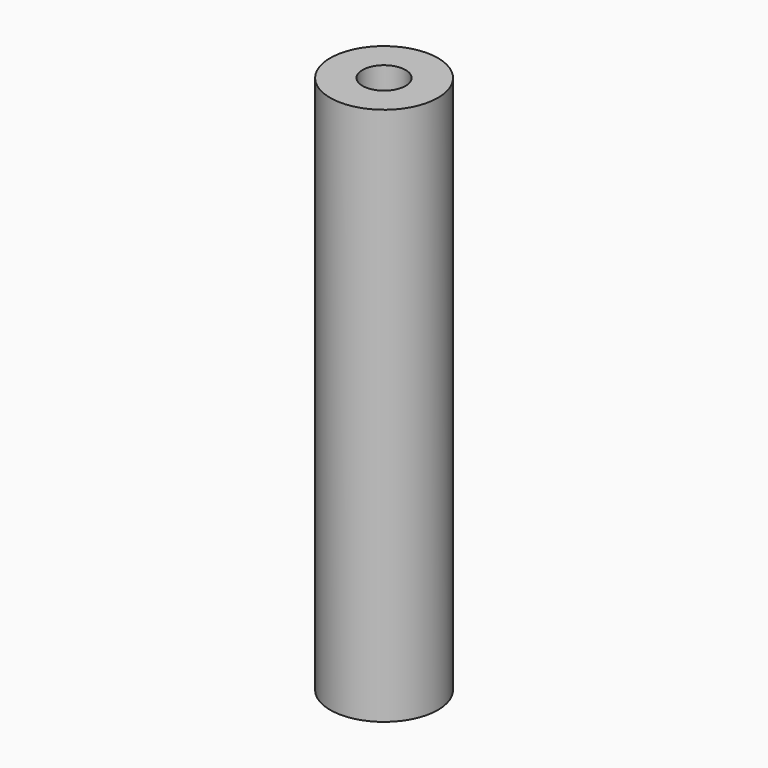
from build123d import *

# Parameters (mm, degrees)
F0_R     = 5.08
F1_DEPTH = 50.8
F2_R     = 2.032
F3_DEPTH = 10.16
F4_R     = 2.032
F5_DEPTH = 10.16


with BuildPart() as f1:
    # F0 (on Top) → F1 (new body)
    with BuildSketch(Plane.XY):
        Circle(F0_R)
    extrude(amount=F1_DEPTH)

    # F2 (on face) → F3 (cut)
    with BuildSketch(Plane.XY.offset(50.8)):
        Circle(F2_R)
    extrude(amount=-F3_DEPTH, mode=Mode.SUBTRACT)

    # F4 (on face) → F5 (cut)
    with BuildSketch(Plane(origin=(0, 0, 0), x_dir=(1, 0, 0), z_dir=(0, 0, -1))):
        Circle(F4_R)
    extrude(amount=-F5_DEPTH, mode=Mode.SUBTRACT)


solid = f1.part
